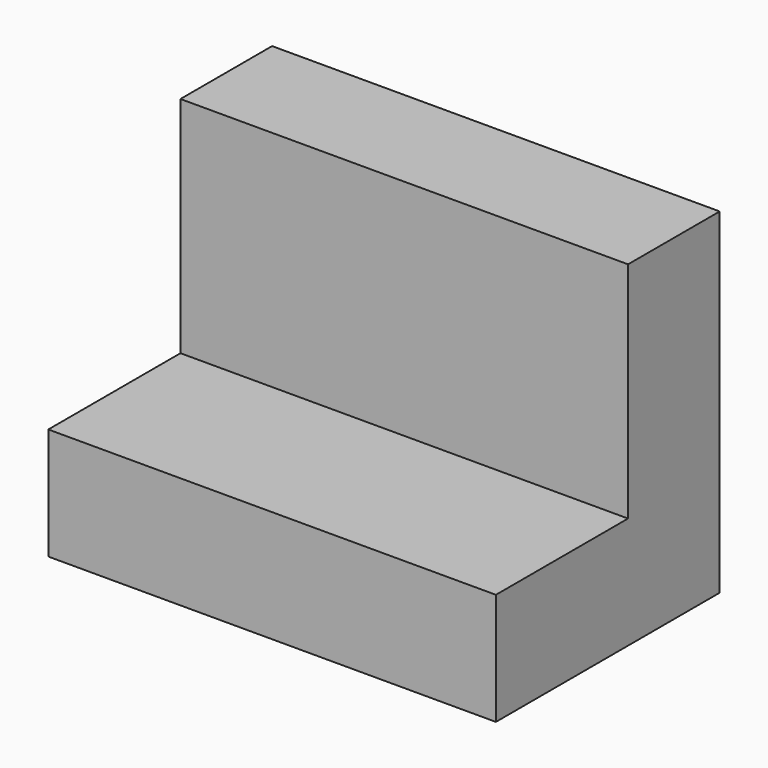
from build123d import *

# Parameters (mm, degrees)
F1_DEPTH = 101.6
F2_W     = 50.8
F2_H     = 32.983538
F3_DEPTH = 25.4


with BuildPart() as f1:
    # F0 (on Right) → F1 (new body)
    with BuildSketch(Plane.YZ):
        Polygon((-32.365506, -17.816462), (-32.365506, -43.216462), (31.134494, -43.216462), (31.134494, 32.983538), (5.12973, 32.983538), (5.12973, -17.816462), align=None)
    extrude(amount=-F1_DEPTH)

    # F2 (on face) → F3 (join)
    with BuildSketch(Plane.XZ.offset(-5.12973)):
        with Locations((-51.069593, 16.491769)):
            Rectangle(F2_W, F2_H)
    extrude(amount=-F3_DEPTH)


solid = f1.part
